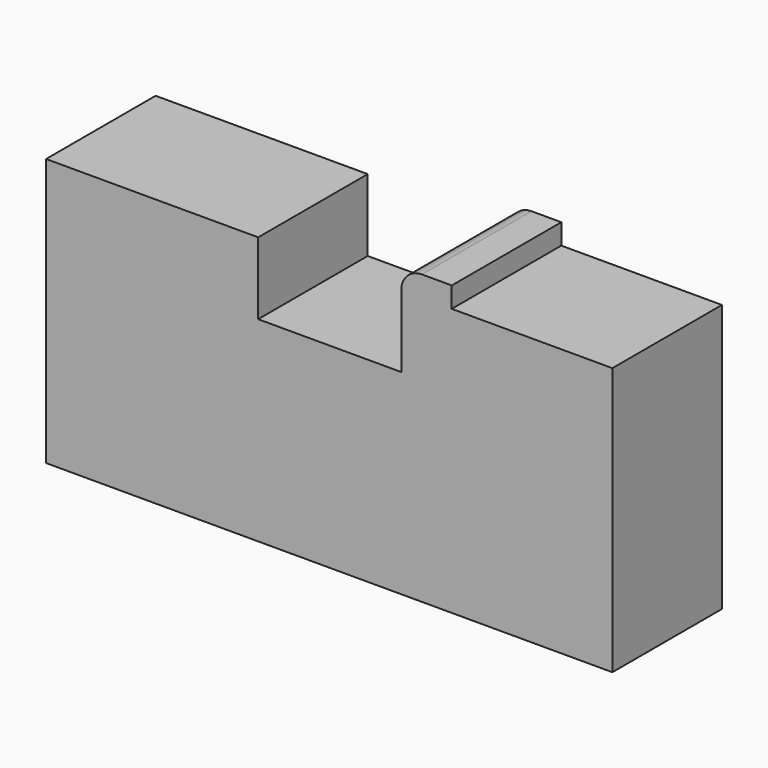
from build123d import *

# Parameters (mm, degrees)
F0_W     = 69.85
F0_H     = 33.02
F1_DEPTH = 16.891
F2_W     = 17.653
F2_H     = 8.89
F3_DEPTH = 25.4
F4_W     = 6.223
F4_H     = 16.891
F5_DEPTH = 2.54
F6_R     = 2.54


with BuildPart() as f1:
    # F0 (on Front) → F1 (new body)
    with BuildSketch(Plane.XZ):
        with Locations((34.925, 16.51)):
            Rectangle(F0_W, F0_H)
    extrude(amount=F1_DEPTH)

    # F2 (on face) → F3 (cut)
    with BuildSketch(Plane.XZ.offset(16.891)):
        with Locations((34.9885, 28.575)):
            Rectangle(F2_W, F2_H)
    extrude(amount=-F3_DEPTH, mode=Mode.SUBTRACT)

    # F4 (on face) → F5 (join)
    with BuildSketch(Plane.XY.offset(33.02)):
        with Locations((46.9265, -8.4455)):
            Rectangle(F4_W, F4_H)
    extrude(amount=F5_DEPTH)

    # F6
    f6_edges = [f1.edges().sort_by_distance(p)[0] for p in [
        (43.815, -8.4455, 35.56),
    ]]
    fillet(f6_edges, radius=F6_R)


solid = f1.part
